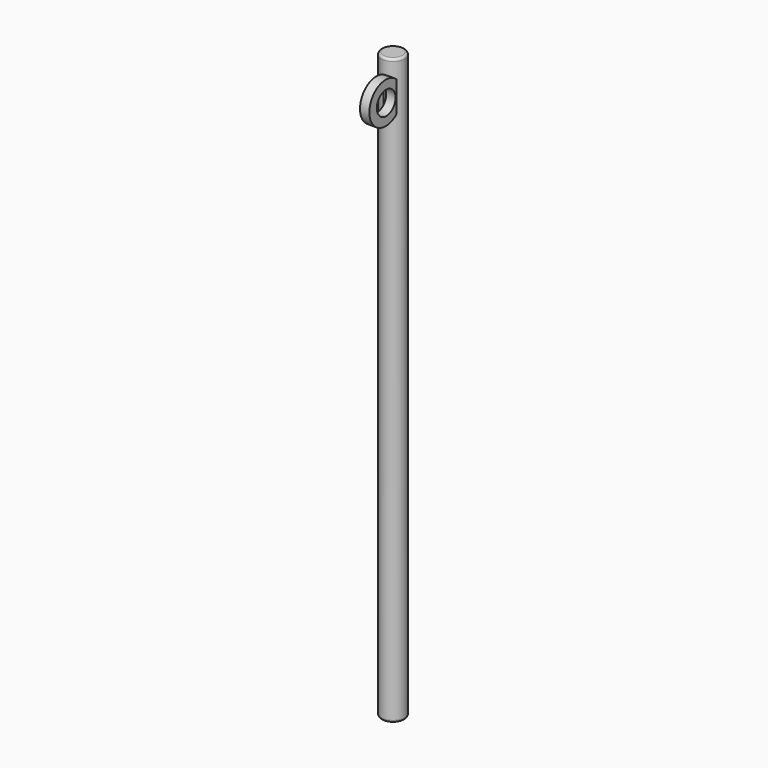
from build123d import *

# Parameters (mm, degrees)
F0_R      = 1.27
F1_DEPTH  = 31.75
F2_R      = 0.761369
F3_DEPTH  = 63.501
F4_R      = 0.901554
F4_R_2    = 0.891013
F4_R_3    = 0.827675
F4_R_4    = 0.671997
F4_R_5    = 0.792576
F4_R_6    = 0.834658
F4_R_7    = 0.858101
F4_R_8    = 0.881554
F4_R_9    = 0.898151
F4_R_10   = 0.82255
F4_R_11   = 0.845133
F4_R_12   = 0.910542
F5_DEPTH  = 25.4
F6_DEPTH  = 0.254
F7_R      = 0.254
F8_R      = 0.254
F9_R      = 2.2225
F10_DEPTH = 1.016
F11_R     = 1.27
F12_DEPTH = 13.1572


with BuildPart() as f1:
    # F0 (on Top) → F1 (new body, symmetric)
    with BuildSketch(Plane.XY):
        Circle(F0_R)
    extrude(amount=F1_DEPTH, both=True)

    # F2 (on face) → F3 (cut, through all)
    with BuildSketch(Plane.XY.offset(31.75)):
        Circle(F2_R)
    extrude(amount=-F3_DEPTH, mode=Mode.SUBTRACT)

    # F4 (on Front) → F5 (cut)
    with BuildSketch(Plane.XZ):
        with BuildLine():
            add(Edge.make_bspline(
                [(0, 23.62661), (1.319664, 23.62661), (0.659832, 25.606584), (0, 27.586558), (-0.659832, 25.606584), (-1.319664, 23.62661), (0, 23.62661)],
                knots=[0, 0, 0, 2.094395, 2.094395, 4.18879, 4.18879, 6.283185, 6.283185, 6.283185], degree=2, weights=[1, 0.5, 1, 0.5, 1, 0.5, 1]))
        make_face()
        with Locations((0, -18.458527)):
            Circle(F4_R)
        with Locations((0, -21.471314)):
            Circle(F4_R_2)
        with Locations((0, 2.397819)):
            Circle(F4_R_3)
        with Locations((0, 9.693011)):
            Circle(F4_R_4)
        with Locations((0, 4.86113)):
            Circle(F4_R_5)
        Circle(F4_R_6)
        with Locations((0, -8.100552)):
            Circle(F4_R_7)
        with Locations((0, -10.735369)):
            Circle(F4_R_8)
        with Locations((0, -13.803192)):
            Circle(F4_R_9)
        with Locations((0, -2.22346)):
            Circle(F4_R_10)
        with Locations((0, -5.23313)):
            Circle(F4_R_11)
        with Locations((0, -24.508931)):
            Circle(F4_R_12)
    extrude(amount=-F5_DEPTH, mode=Mode.SUBTRACT)

    # F2 (on face) → F6 (join)
    with BuildSketch(Plane.XY.offset(31.75)):
        Circle(F2_R)
    extrude(amount=-F6_DEPTH)

    # F7
    f7_edges = [f1.edges().sort_by_distance(p)[0] for p in [
        (-1.27, 0, 31.75),
    ]]
    fillet(f7_edges, radius=F7_R)

    # F8
    f8_edges = [f1.edges().sort_by_distance(p)[0] for p in [
        (-1.27, 0, -31.75),
    ]]
    fillet(f8_edges, radius=F8_R)

    # F9 (on Right) → F10 (join)
    with BuildSketch(Plane.YZ):
        with Locations((-2.255923, 28.123816)):
            Circle(F9_R)
    extrude(amount=F10_DEPTH)

    # F11 (on Right) → F12 (cut)
    with BuildSketch(Plane.YZ):
        with Locations((-2.193632, 28.102737)):
            Circle(F11_R)
    extrude(amount=F12_DEPTH, mode=Mode.SUBTRACT)


solid = f1.part
